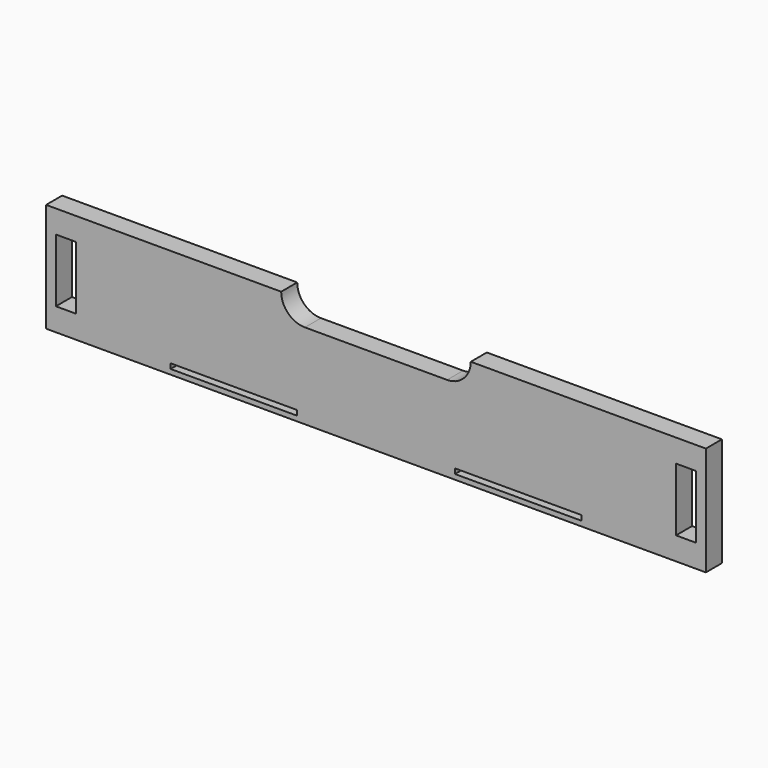
from build123d import *

# Parameters (mm, degrees)
F1_W     = 80
F1_H     = 3.18
F1_W_2   = 12.7
F1_H_2   = 40
F2_DEPTH = 12.7


with BuildPart() as f2:
    # F1 (on Front) → F2 (new body)
    with BuildSketch(Plane.XZ):
        with BuildLine():
            Line((-208.8, 65.82), (-208.8, -3.18))
            Line((-208.8, -3.18), (208.8, -3.18))
            Line((208.8, -3.18), (208.8, 65.82))
            Line((208.8, 65.82), (60, 65.82))
            ThreePointArc((60, 65.82), (55.6066017178, 55.2133982822), (45, 50.82))
            Line((45, 50.82), (-45, 50.82))
            ThreePointArc((-45, 50.82), (-55.6066017178, 55.2133982822), (-60, 65.82))
            Line((-60, 65.82), (-208.8, 65.82))
        make_face()
        with Locations((-90, 1.59)):
            Rectangle(F1_W, F1_H, mode=Mode.SUBTRACT)
        with Locations((90, 1.59)):
            Rectangle(F1_W, F1_H, mode=Mode.SUBTRACT)
        with Locations((-196.25, 31.32)):
            Rectangle(F1_W_2, F1_H_2, mode=Mode.SUBTRACT)
        with Locations((196.25, 31.32)):
            Rectangle(F1_W_2, F1_H_2, mode=Mode.SUBTRACT)
    extrude(amount=F2_DEPTH)


solid = f2.part
